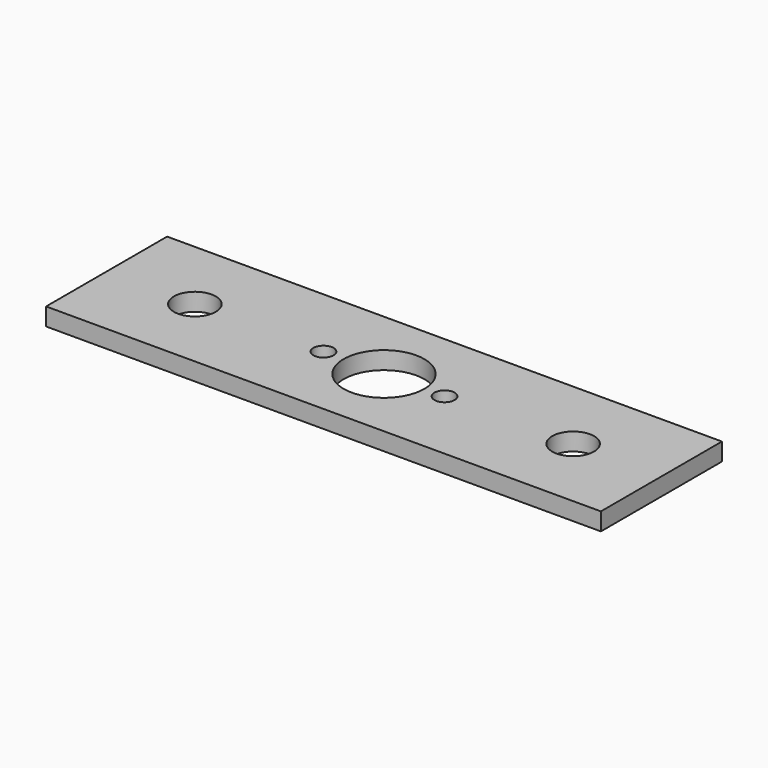
from build123d import *

# Parameters (mm, degrees)
F0_W     = 110
F0_H     = 30
F0_R     = 4.15
F0_R_2   = 2
F0_R_3   = 8
F1_DEPTH = 3.5


with BuildPart() as f1:
    # F0 (on Top) → F1 (new body)
    with BuildSketch(Plane.XY):
        Rectangle(F0_W, F0_H)
        with Locations((-37.5, 0)):
            Circle(F0_R, mode=Mode.SUBTRACT)
        with Locations((-12, 0)):
            Circle(F0_R_2, mode=Mode.SUBTRACT)
        Circle(F0_R_3, mode=Mode.SUBTRACT)
        with Locations((12, 0)):
            Circle(F0_R_2, mode=Mode.SUBTRACT)
        with Locations((37.5, 0)):
            Circle(F0_R, mode=Mode.SUBTRACT)
    extrude(amount=F1_DEPTH)


solid = f1.part
